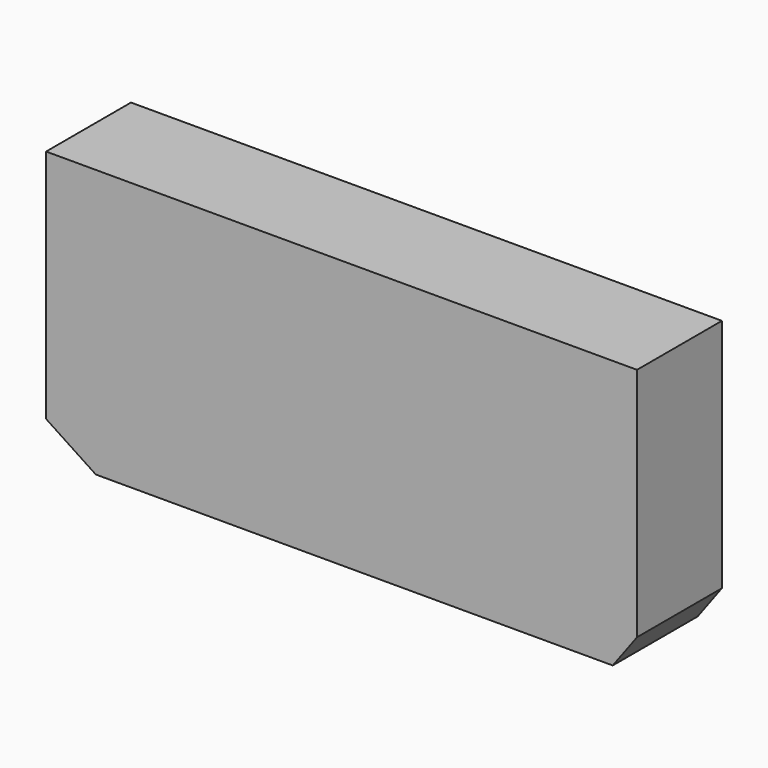
from build123d import *

# Parameters (mm, degrees)
F0_W     = 123.7178146839
F0_H     = 7.841270417
F0_H_2   = 49.3709631264
F1_DEPTH = 25.4


with BuildPart() as f1:
    # F0 (on Front) → F1 (new body)
    with BuildSketch(Plane.XZ):
        Polygon((67.6672682166, 35.5761349201), (61.858907342, 28.6061167717), (61.858907342, -20.7648463547), (67.6672682166, -20.7648463547), align=None)
        Polygon((-61.858907342, 28.6061167717), (61.858907342, 28.6061167717), (67.6672682166, 35.5761349201), (-73.7660303712, 35.5761349201), align=None)
        Polygon((-61.858907342, -20.7648463547), (-61.858907342, 28.6061167717), (-73.7660303712, 35.5761349201), (-73.7660303712, -20.7648463547), align=None)
        Polygon((67.6672682166, -20.7648463547), (61.858907342, -20.7648463547), (61.858907342, -28.6061167717), align=None)
        with Locations((0, -24.6854815632)):
            Rectangle(F0_W, F0_H)
        Polygon((-61.858907342, -28.6061167717), (-61.858907342, -20.7648463547), (-73.7660303712, -20.7648463547), align=None)
        with Locations((0, 3.9206352085)):
            Rectangle(F0_W, F0_H_2)
    extrude(amount=F1_DEPTH)


solid = f1.part
